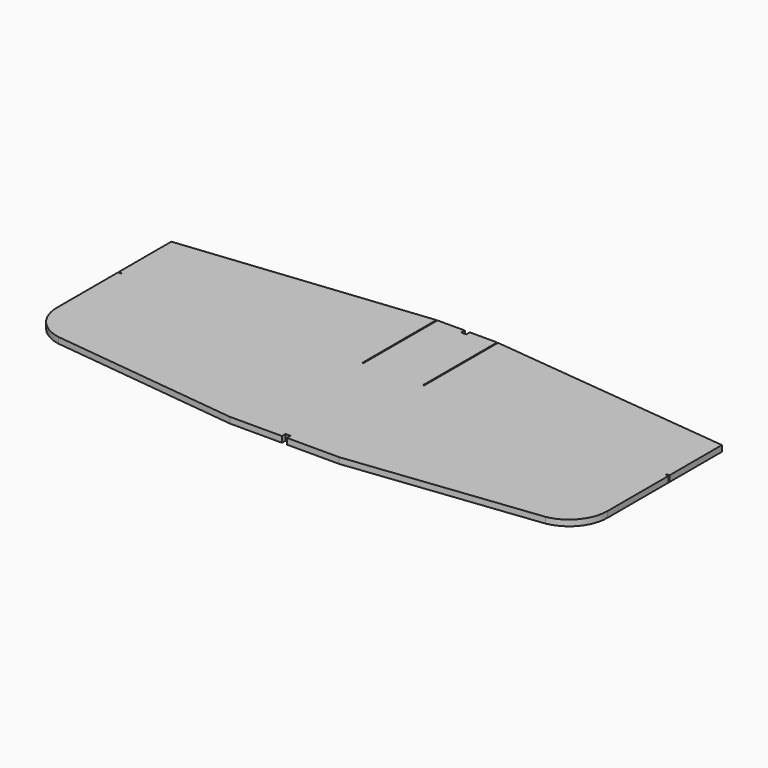
from build123d import *

# Parameters (mm, degrees)
F1_DEPTH = 6
F3_COUNT = 2
F3_ANGLE = 180


with BuildPart() as f1:
    # F0 (on Top) → F1 (new body)
    with BuildSketch(Plane.XY):
        with BuildLine():
            Line((-108.5, 115), (-136, 115))
            Line((-136, 115), (-136, 110.5))
            Line((-136, 110.5), (-138.5, 110.5))
            Line((-138.5, 110.5), (-138.5, -93))
            Line((-138.5, -93), (106.5, -93))
            ThreePointArc((106.5, -93), (129.434388, -79.839485), (138.5, -55))
            Line((138.5, -55), (138.5, 22))
            Line((138.5, 22), (135.5, 22))
            Line((135.5, 22), (-107.5, 22))
            Line((-107.5, 22), (-108.5, 22))
            Line((-108.5, 22), (-108.5, 115))
        make_face()
        Polygon((138.5, 89), (-107.5, 114.894737), (-107.5, 22), (135.5, 22), (135.5, 23), (138.5, 23), align=None)
        Polygon((106.5, -93), (-138.5, -93), (-138.5, -110.5), (-136, -110.5), (-136, -115), (-83.5, -115), align=None)
    extrude(amount=F1_DEPTH)

    # F3: F1 ×2 about axis
    f3_axis = Axis((-138.5, 0, 3), (0, 1, 0))


with BuildPart() as f1_1:
    add(f1.part)
    for i in range(1, F3_COUNT):
        add(f1.part.rotate(f3_axis, i * F3_ANGLE / (F3_COUNT - 1)))


solid = f1_1.part
